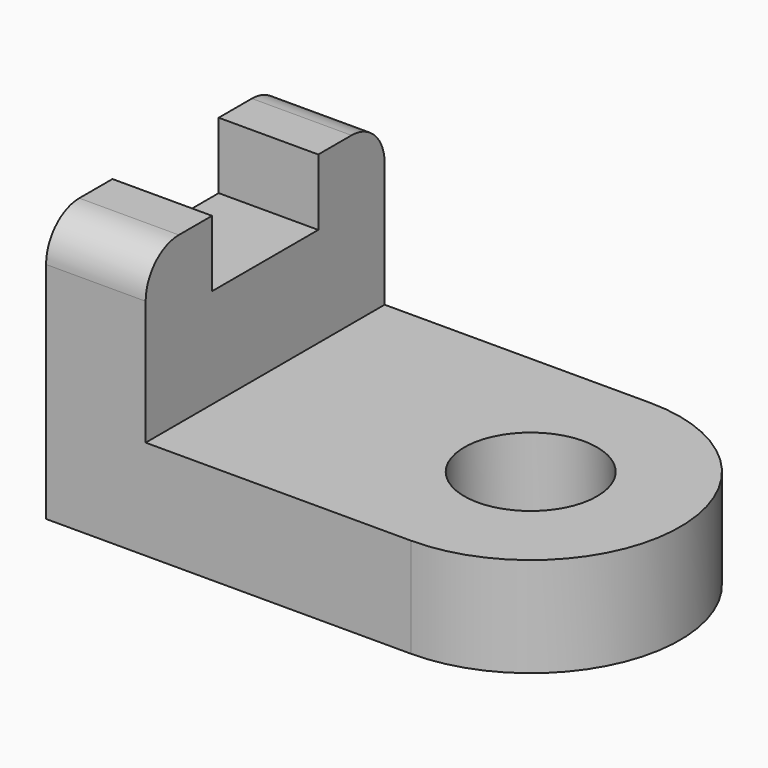
from build123d import *

# Parameters (mm, degrees)
F0_W     = 62
F0_H     = 36
F1_DEPTH = 32
F2_W     = 60
F2_H     = 30
F3_DEPTH = 36.001
F5_DEPTH = 12.001
F6_W     = 16
F6_H     = 12
F7_DEPTH = 12.001
F8_R     = 8
F9_DEPTH = 12.001
F10_R    = 5


with BuildPart() as f1:
    # F0 (on Top) → F1 (new body)
    with BuildSketch(Plane.XY):
        with Locations((-13, 0)):
            Rectangle(F0_W, F0_H)
    extrude(amount=F1_DEPTH)

    # F2 (on face) → F3 (cut, through all)
    with BuildSketch(Plane.XZ.offset(18)):
        with Locations((-2, 27)):
            Rectangle(F2_W, F2_H)
    extrude(amount=-F3_DEPTH, mode=Mode.SUBTRACT)

    # F4 (on face) → F5 (cut, through all)
    with BuildSketch(Plane.XY.offset(12)):
        with BuildLine():
            ThreePointArc((0, 18), (18, 0), (0, -18))
            Line((0, -18), (0, -28))
            Line((0, -28), (28, -28))
            Line((28, -28), (28, 28))
            Line((28, 28), (0, 28))
            Line((0, 28), (0, 18))
        make_face()
    extrude(amount=-F5_DEPTH, mode=Mode.SUBTRACT)

    # F6 (on face) → F7 (cut, through all)
    with BuildSketch(Plane.YZ.offset(-32)):
        with Locations((0, 30)):
            Rectangle(F6_W, F6_H)
    extrude(amount=-F7_DEPTH, mode=Mode.SUBTRACT)

    # F8 (on face) → F9 (cut, through all)
    with BuildSketch(Plane.XY.offset(12)):
        Circle(F8_R)
    extrude(amount=-F9_DEPTH, mode=Mode.SUBTRACT)

    # F10
    f10_edges = [f1.edges().sort_by_distance(p)[0] for p in [
        (-38, 18, 32),
        (-38, -18, 32),
    ]]
    fillet(f10_edges, radius=F10_R)


solid = f1.part
